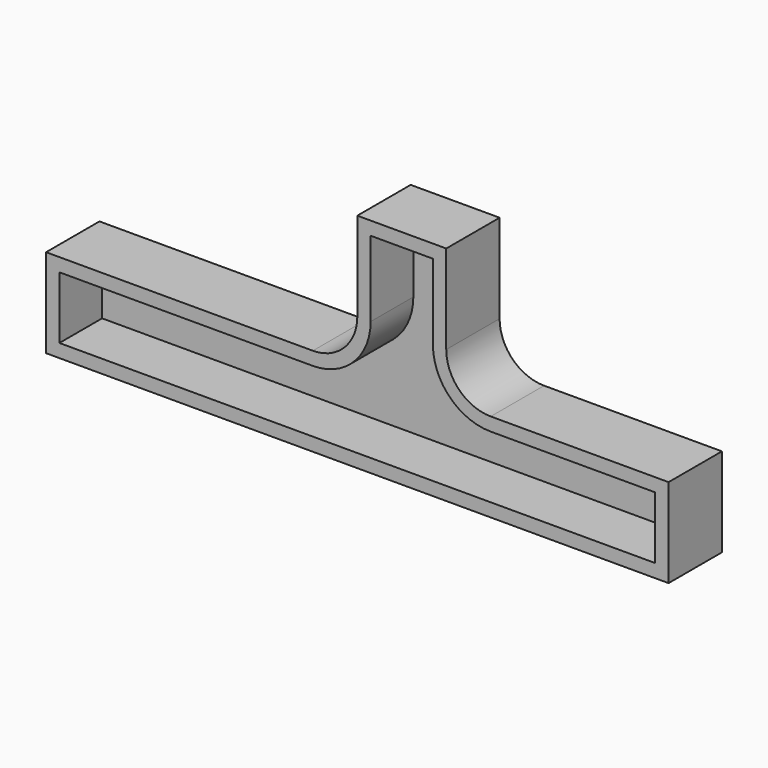
from build123d import *

# Parameters (mm, degrees)
F2_DEPTH = 5
F3_DEPTH = 2.5
F4_T     = -1.5


with BuildPart() as f2:
    # F0 (on Front) → F2 (new body)
    with BuildSketch(Plane.XZ):
        with BuildLine():
            Line((0, 10), (0, 0))
            Line((0, 0), (70, 0))
            Line((70, 0), (70, 10))
            Line((70, 10), (50, 10))
            ThreePointArc((50, 10), (46.464466, 11.464466), (45, 15))
            Line((45, 15), (45, 25))
            Line((45, 25), (35, 25))
            Line((35, 25), (35, 15))
            ThreePointArc((35, 15), (33.535534, 11.464466), (30, 10))
            Line((30, 10), (0, 10))
        make_face()
    extrude(amount=F2_DEPTH)

    # F0 (on Front) → F3 (join, symmetric)
    with BuildSketch(Plane.XZ):
        with BuildLine():
            Line((0, 10), (0, 0))
            Line((0, 0), (70, 0))
            Line((70, 0), (70, 10))
            Line((70, 10), (50, 10))
            ThreePointArc((50, 10), (46.464466, 11.464466), (45, 15))
            Line((45, 15), (45, 25))
            Line((45, 25), (35, 25))
            Line((35, 25), (35, 15))
            ThreePointArc((35, 15), (33.535534, 11.464466), (30, 10))
            Line((30, 10), (0, 10))
        make_face()
    extrude(amount=F3_DEPTH, both=True)

    # F4
    f4_openings = [f2.faces().sort_by_distance(p)[0] for p in [
        (35.933685, -5, 7.254637),
    ]]
    offset(amount=F4_T, openings=f4_openings)


solid = f2.part
